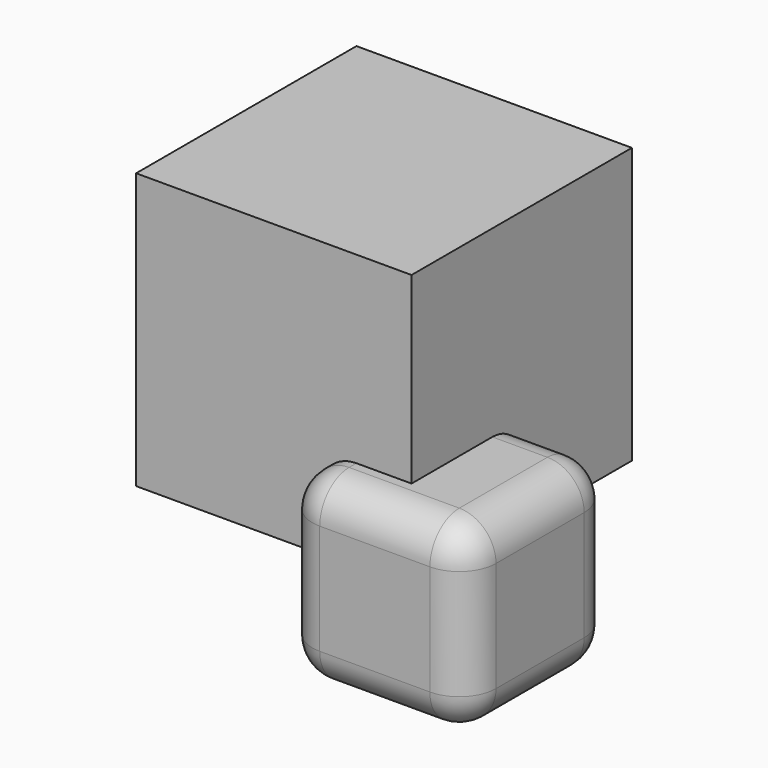
from build123d import *

# Parameters (mm, degrees)
F0_W     = 25.4
F0_H     = 25.4
F1_DEPTH = 25.4
F2_R     = 5.08
F3_W     = 7.62
F3_H     = 7.62
F4_DEPTH = 19.05


with BuildPart() as f1:
    # F0 (on Front) → F1 (new body)
    with BuildSketch(Plane.XZ):
        with Locations((12.7, 12.7)):
            Rectangle(F0_W, F0_H)
    extrude(amount=-F1_DEPTH)

    # F2
    f2_edges = [f1.edges().sort_by_distance(p)[0] for p in [
        (25.4, 12.7, 25.4),
        (0, 12.7, 25.4),
        (12.7, 0, 25.4),
        (12.7, 25.4, 25.4),
        (0, 0, 12.7),
        (12.7, 0, 0),
        (25.4, 0, 12.7),
        (25.4, 12.7, 0),
        (25.4, 25.4, 12.7),
        (0, 12.7, 0),
        (0, 25.4, 12.7),
        (12.7, 25.4, 0),
    ]]
    fillet(f2_edges, radius=F2_R)

    # F3 (on face) → F4 (join, symmetric)
    with BuildSketch(Plane(origin=(0, 25.4, 0), x_dir=(-1, 0, 0), z_dir=(0, 1, 0))):
        with Locations((-8.89, 16.51)):
            Rectangle(F3_W, F3_H)
        Polygon((-5.08, 20.32), (-5.08, 12.7), (25.4, 12.7), (25.4, 50.8), (-12.7, 50.8), (-12.7, 20.32), align=None)
    extrude(amount=F4_DEPTH, both=True)


solid = f1.part
